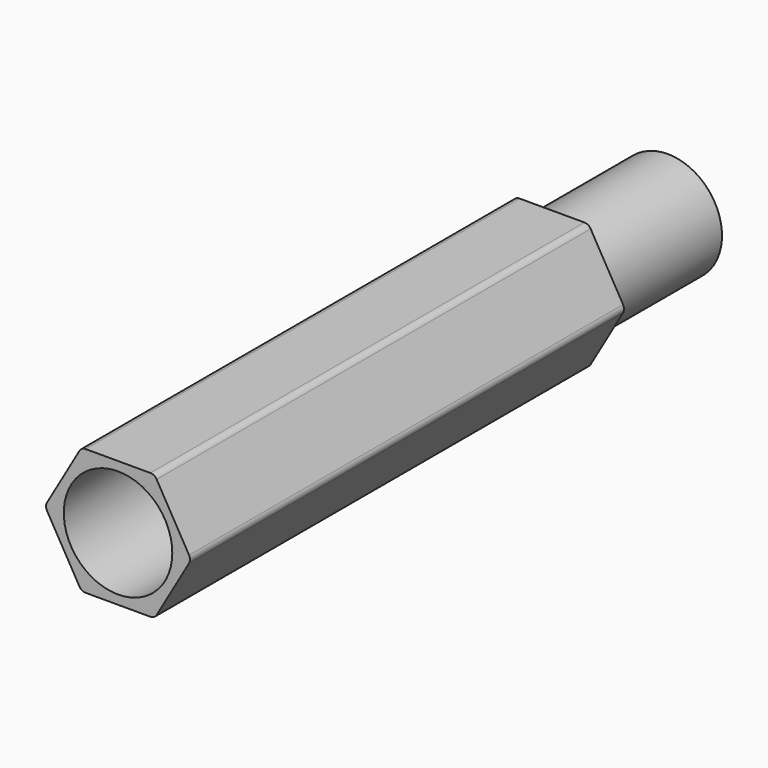
from build123d import *

# Parameters (mm, degrees)
F1_DEPTH = 15
F2_R     = 0.2
F3_R     = 1.5
F4_DEPTH = 10
F5_R     = 1.5
F6_DEPTH = 4


with BuildPart() as f1:
    # F0 (on Front) → F1 (new body)
    with BuildSketch(Plane.XZ):
        Polygon((1.0103629711, -1.75), (2.0207259422, 0), (1.0103629711, 1.75), (-1.0103629711, 1.75), (-2.0207259422, 0), (-1.0103629711, -1.75), align=None)
    extrude(amount=F1_DEPTH)

    # F2
    f2_edges = [f1.edges().sort_by_distance(p)[0] for p in [
        (-1.010363, -7.5, 1.75),
        (1.010363, -7.5, 1.75),
        (2.020726, -7.5, 0),
        (1.010363, -7.5, -1.75),
        (-1.010363, -7.5, -1.75),
        (-2.020726, -7.5, 0),
    ]]
    fillet(f2_edges, radius=F2_R)

    # F3 (on face) → F4 (cut)
    with BuildSketch(Plane.XZ.offset(15)):
        Circle(F3_R)
    extrude(amount=-F4_DEPTH, mode=Mode.SUBTRACT)

    # F5 (on face) → F6 (join)
    with BuildSketch(Plane(origin=(0, 0, 0), x_dir=(-1, 0, 0), z_dir=(0, 1, 0))):
        Circle(F5_R)
    extrude(amount=F6_DEPTH)


solid = f1.part
